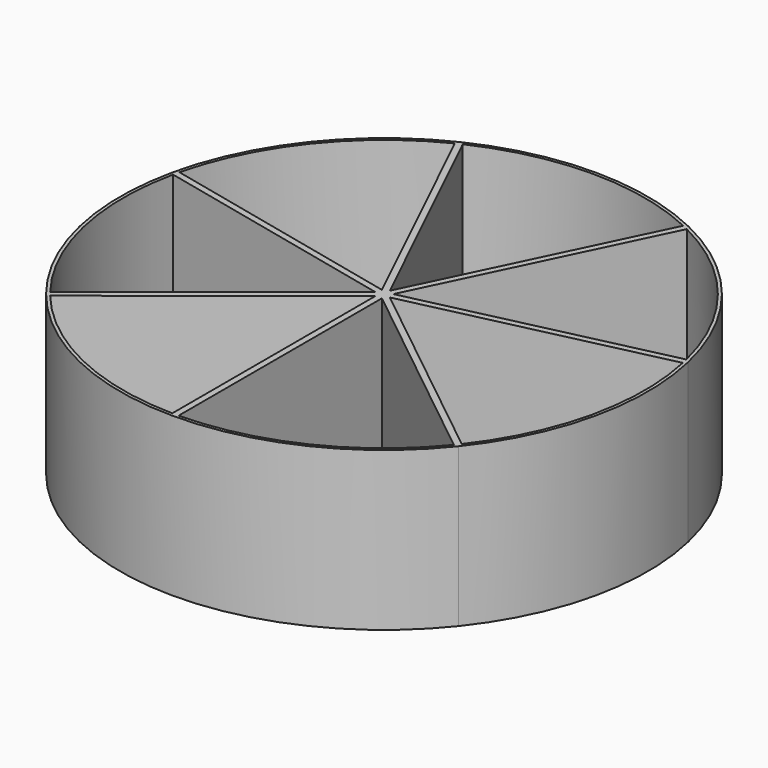
from build123d import *

# Parameters (mm, degrees)
F4_DEPTH = 30
F5_DEPTH = 1.2


with BuildPart() as f4:
    # F3 (on Top) → F4 (new body)
    with BuildSketch(Plane.XY):
        with BuildLine():
            Line((0, -50), (0, 0))
            Line((0, 0), (-39.0915741234, -31.1744900929))
            ThreePointArc((-39.0915741234, -31.1744900929), (-21.6941869559, -45.0484433951), (0, -50))
        make_face()
        with BuildLine():
            Line((-38.2455324691, -31.2672231923), (-0.6, -1.2459128379))
            Line((-0.6, -1.2459128379), (-0.6, -49.3963561409))
            ThreePointArc((-0.6, -49.3963561409), (-21.4338567124, -44.5078620744), (-38.2455324691, -31.2672231923))
        make_face(mode=Mode.SUBTRACT)
        with BuildLine():
            Line((39.0915741234, -31.1744900929), (0, 0))
            Line((0, 0), (0, -50))
            ThreePointArc((0, -50), (21.6941869559, -45.0484433951), (39.0915741234, -31.1744900929))
        make_face()
        with BuildLine():
            Line((0.6, -49.3963561409), (0.6, -1.2459128379))
            Line((0.6, -1.2459128379), (38.2455324691, -31.2672231923))
            ThreePointArc((38.2455324691, -31.2672231923), (21.4338567124, -44.5078620744), (0.6, -49.3963561409))
        make_face(mode=Mode.SUBTRACT)
        with BuildLine():
            Line((-39.0915741234, -31.1744900929), (0, 0))
            Line((0, 0), (-48.7463956091, 11.1260466978))
            ThreePointArc((-48.7463956091, 11.1260466978), (-48.7463956091, -11.1260466978), (-39.0915741234, -31.1744900929))
        make_face()
        with BuildLine():
            Line((-1.3481877622, -0.307715059), (-38.9937202313, -30.3290254134))
            ThreePointArc((-38.9937202313, -30.3290254134), (-48.1614388618, -10.9925341374), (-48.2913989222, 10.4067665552))
            Line((-48.2913989222, 10.4067665552), (-1.3481877622, -0.307715059))
        make_face(mode=Mode.SUBTRACT)
        with BuildLine():
            Line((-48.7463956091, 11.1260466978), (0, 0))
            Line((0, 0), (-21.6941869559, 45.0484433951))
            ThreePointArc((-21.6941869559, 45.0484433951), (-39.0915741234, 31.1744900929), (-48.7463956091, 11.1260466978))
        make_face()
        with BuildLine():
            Line((-21.9728570219, 44.2442488273), (-1.0811626415, 0.8621984356))
            Line((-1.0811626415, 0.8621984356), (-48.0243738015, 11.5766800498))
            ThreePointArc((-48.0243738015, 11.5766800498), (-38.6224752339, 30.8003962118), (-21.9728570219, 44.2442488273))
        make_face(mode=Mode.SUBTRACT)
        with BuildLine():
            Line((-21.6941869559, 45.0484433951), (0, 0))
            Line((0, 0), (21.6941869559, 45.0484433951))
            ThreePointArc((21.6941869559, 45.0484433951), (0, 50), (-21.6941869559, 45.0484433951))
        make_face()
        with BuildLine():
            Line((0, 1.3828589226), (-20.8916943805, 44.7649093143))
            ThreePointArc((-20.8916943805, 44.7649093143), (0, 49.4), (20.8916943805, 44.7649093143))
            Line((20.8916943805, 44.7649093143), (0, 1.3828589226))
        make_face(mode=Mode.SUBTRACT)
        with BuildLine():
            Line((21.6941869559, 45.0484433951), (0, 0))
            Line((0, 0), (48.7463956091, 11.1260466978))
            ThreePointArc((48.7463956091, 11.1260466978), (39.0915741234, 31.1744900929), (21.6941869559, 45.0484433951))
        make_face()
        with BuildLine():
            Line((48.0243738015, 11.5766800498), (1.0811626415, 0.8621984356))
            Line((1.0811626415, 0.8621984356), (21.9728570219, 44.2442488273))
            ThreePointArc((21.9728570219, 44.2442488273), (38.6224752339, 30.8003962118), (48.0243738015, 11.5766800498))
        make_face(mode=Mode.SUBTRACT)
        with BuildLine():
            Line((48.7463956091, 11.1260466978), (0, 0))
            Line((0, 0), (39.0915741234, -31.1744900929))
            ThreePointArc((39.0915741234, -31.1744900929), (48.7463956091, -11.1260466978), (48.7463956091, 11.1260466978))
        make_face()
        with BuildLine():
            Line((1.3481877622, -0.307715059), (48.2913989222, 10.4067665552))
            ThreePointArc((48.2913989222, 10.4067665552), (48.1614388618, -10.9925341374), (38.9937202313, -30.3290254134))
            Line((38.9937202313, -30.3290254134), (1.3481877622, -0.307715059))
        make_face(mode=Mode.SUBTRACT)
    extrude(amount=F4_DEPTH)

    # F2 (on Top) → F5 (join)
    with BuildSketch(Plane.XY):
        with BuildLine():
            Line((-39.0915741234, -31.1744900929), (0, 0))
            Line((0, 0), (-48.7463956091, 11.1260466978))
            ThreePointArc((-48.7463956091, 11.1260466978), (-48.7463956091, -11.1260466978), (-39.0915741234, -31.1744900929))
        make_face()
        with BuildLine():
            Line((-48.7463956091, 11.1260466978), (0, 0))
            Line((0, 0), (-21.6941869559, 45.0484433951))
            ThreePointArc((-21.6941869559, 45.0484433951), (-39.0915741234, 31.1744900929), (-48.7463956091, 11.1260466978))
        make_face()
        with BuildLine():
            Line((0, 0), (21.6941869559, 45.0484433951))
            ThreePointArc((21.6941869559, 45.0484433951), (0, 50), (-21.6941869559, 45.0484433951))
            Line((-21.6941869559, 45.0484433951), (0, 0))
        make_face()
        with BuildLine():
            Line((0, 0), (48.7463956091, 11.1260466978))
            ThreePointArc((48.7463956091, 11.1260466978), (39.0915741234, 31.1744900929), (21.6941869559, 45.0484433951))
            Line((21.6941869559, 45.0484433951), (0, 0))
        make_face()
        with BuildLine():
            ThreePointArc((39.0915741234, -31.1744900929), (47.1941665154, -16.5139530978), (50, 0))
            ThreePointArc((50, 0), (49.6856104947, 5.5982238052), (48.7463956091, 11.1260466978))
            Line((48.7463956091, 11.1260466978), (0, 0))
            Line((0, 0), (39.0915741234, -31.1744900929))
        make_face()
        with BuildLine():
            ThreePointArc((0, -50), (21.6941869559, -45.0484433951), (39.0915741234, -31.1744900929))
            Line((39.0915741234, -31.1744900929), (0, 0))
            Line((0, 0), (0, -50))
        make_face()
        with BuildLine():
            Line((0, -50), (0, 0))
            Line((0, 0), (-39.0915741234, -31.1744900929))
            ThreePointArc((-39.0915741234, -31.1744900929), (-21.6941869559, -45.0484433951), (0, -50))
        make_face()
    extrude(amount=F5_DEPTH)


solid = f4.part
